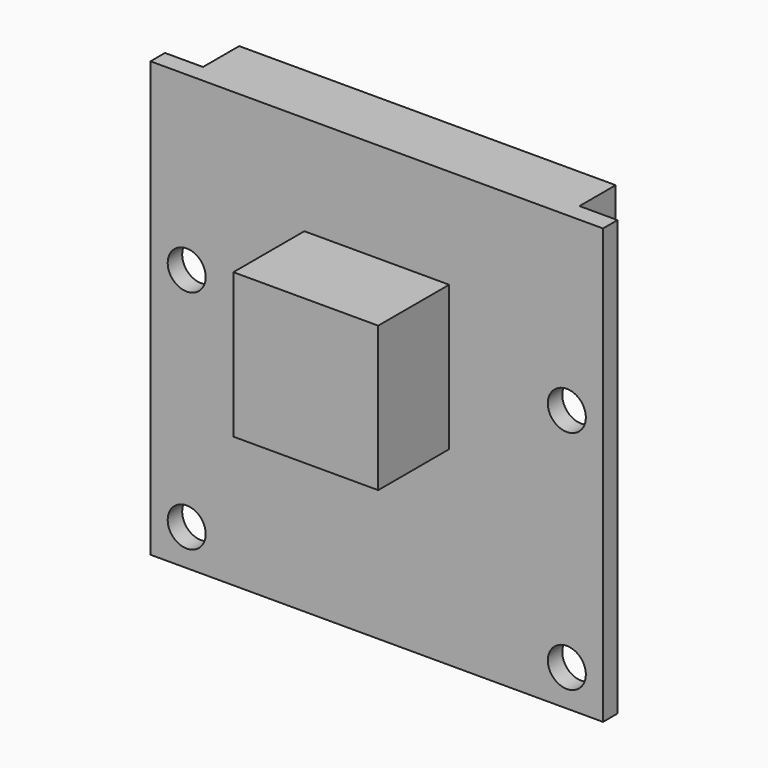
from build123d import *

# Parameters (mm, degrees)
F0_W     = 25
F0_H     = 24
F1_DEPTH = 0.5
F3_D     = 2.1
F4_W     = 20.8
F4_H     = 5.5
F5_DEPTH = 2.5
F6_W     = 8
F6_H     = 8
F7_DEPTH = 4.9


with BuildPart() as f1:
    # F0 (on Front) → F1 (new body, symmetric)
    with BuildSketch(Plane.XZ):
        Rectangle(F0_W, F0_H)
    extrude(amount=F1_DEPTH, both=True)

    # F3 (through all)
    with Locations(Plane.XZ.offset(0.5)):
        with Locations((-10.5, 2.5), (-10.5, -10), (10.5, 2.5), (10.5, -10)):
            Hole(F3_D / 2)

    # F4 (on face) → F5 (join)
    with BuildSketch(Plane(origin=(0, 0.5, 0), x_dir=(-1, 0, 0), z_dir=(0, 1, 0))):
        with Locations((0, 9.25)):
            Rectangle(F4_W, F4_H)
    extrude(amount=F5_DEPTH)

    # F6 (on face) → F7 (join)
    with BuildSketch(Plane.XZ.offset(0.5)):
        with Locations((0, 2.5)):
            Rectangle(F6_W, F6_H)
    extrude(amount=F7_DEPTH)


solid = f1.part
